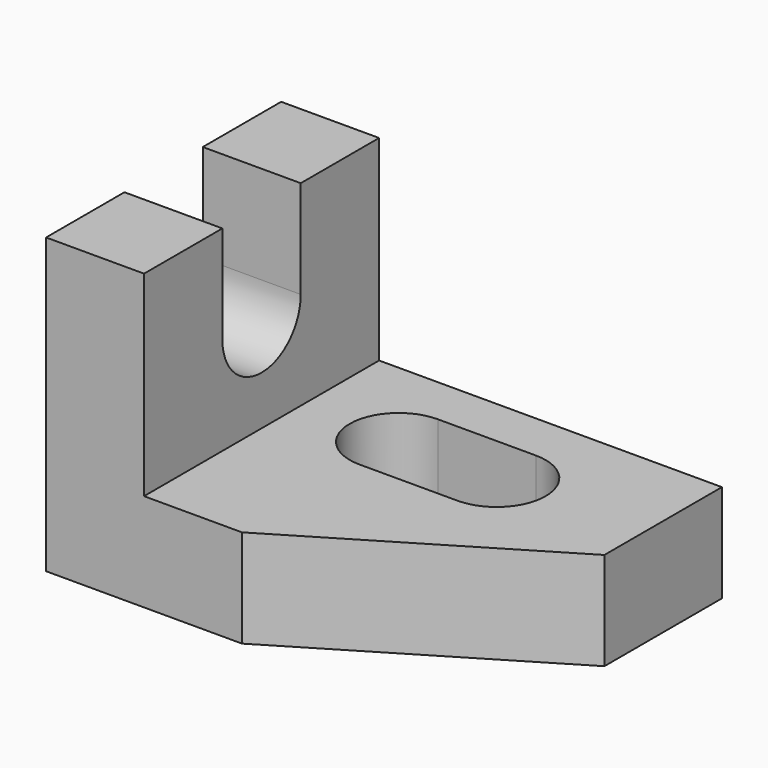
from build123d import *

# Parameters (mm, degrees)
F1_DEPTH = 60
F3_DEPTH = 20.001
F5_DEPTH = 20.001
F7_DEPTH = 20.001


with BuildPart() as f1:
    # F0 (on Front) → F1 (new body)
    with BuildSketch(Plane.XZ):
        Polygon((0, 60), (0, 0), (90, 0), (90, 20), (20, 20), (20, 60), align=None)
    extrude(amount=F1_DEPTH)

    # F2 (on face) → F3 (cut, through all)
    with BuildSketch(Plane.YZ.offset(20)):
        with BuildLine():
            Line((-20, 60), (-40, 60))
            Line((-40, 60), (-40, 40))
            ThreePointArc((-40, 40), (-30, 30), (-20, 40))
            Line((-20, 40), (-20, 60))
        make_face()
    extrude(amount=-F3_DEPTH, mode=Mode.SUBTRACT)

    # F4 (on face) → F5 (cut, through all)
    with BuildSketch(Plane.XY.offset(20)):
        Polygon((90, -60), (90, -30), (40, -60), align=None)
    extrude(amount=-F5_DEPTH, mode=Mode.SUBTRACT)

    # F6 (on face) → F7 (cut, through all)
    with BuildSketch(Plane.XY.offset(20)):
        with BuildLine():
            ThreePointArc((40, -10), (30, -20), (40, -30))
            Line((40, -30), (60, -30))
            ThreePointArc((60, -30), (70, -20), (60, -10))
            Line((60, -10), (40, -10))
        make_face()
    extrude(amount=-F7_DEPTH, mode=Mode.SUBTRACT)


solid = f1.part
